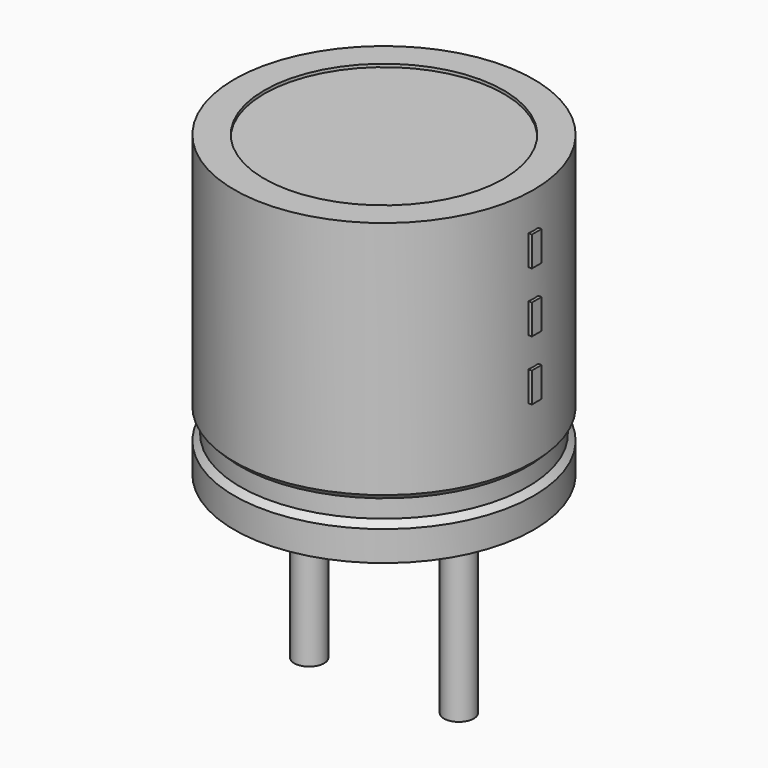
from build123d import *

# Parameters (mm, degrees)
SKETCH002_W  = 2.3
SKETCH002_H  = 4.9
SKETCH003_R  = 0.25
PAD_DEPTH    = 3.5
SKETCH004_W  = 0.2
SKETCH004_H  = 0.5
PAD001_DEPTH = 2.55


with BuildPart() as revolution:
    # Sketch → Revolution (revolve)
    with BuildSketch(Plane.XZ):
        Polygon((-1.25, 0.1), (-1.25, 0.6), (-1.15, 0.7), (-1.15, 1), (-1.25, 1.1), (-1.25, 5.1), (-0.75, 5.1), (-0.75, 0.1), align=None)
    revolve(axis=Axis((1.25, 0, 7.548619), (0, 0, -1)))


with BuildPart() as revolution001:
    # Sketch002 → Revolution001 (revolve)
    with BuildSketch(Plane.XZ):
        with Locations((0.1, 2.6)):
            Rectangle(SKETCH002_W, SKETCH002_H)
    revolve(axis=Axis((1.25, 0, 4.680116), (0, 0, -1)))


with BuildPart() as pad:
    # Sketch003 → Pad (new body)
    with BuildSketch(Plane.XY.offset(0.5)):
        Circle(SKETCH003_R)
        with Locations((2.5, 0)):
            Circle(SKETCH003_R)
    extrude(amount=-PAD_DEPTH)


with BuildPart() as pad001:
    # Sketch004 → Pad001 (new body)
    with BuildSketch(Plane.YZ.offset(1.25)):
        with Locations((0, 2.25)):
            Rectangle(SKETCH004_W, SKETCH004_H)
        with Locations((0, 3.25)):
            Rectangle(SKETCH004_W, SKETCH004_H)
        with Locations((0, 4.25)):
            Rectangle(SKETCH004_W, SKETCH004_H)
    extrude(amount=PAD001_DEPTH)


solid = Compound([revolution.part, revolution001.part, pad.part, pad001.part])
